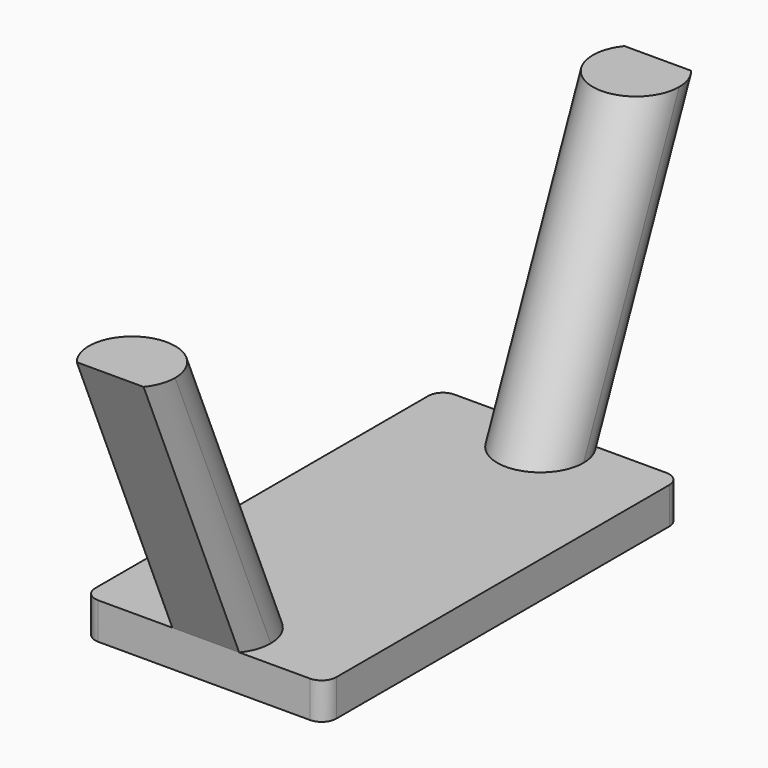
from build123d import *

# Parameters (mm, degrees)
F0_W     = 83.82
F0_H     = 154.94
F1_DEPTH = 12.7
F2_W     = 71.12
F2_H     = 142.24
F3_DEPTH = 7.62
F4_R     = 5.08
F5_R     = 5.08
F6_R     = 5.08
F7_R     = 5.08


with BuildPart() as f1:
    # F0 (on Top) → F1 (new body)
    with BuildSketch(Plane.XY):
        Rectangle(F0_W, F0_H)
    extrude(amount=F1_DEPTH)

    # F2 (on Top) → F3 (cut)
    with BuildSketch(Plane.XY):
        Rectangle(F2_W, F2_H)
    extrude(amount=F3_DEPTH, mode=Mode.SUBTRACT)

    # F4
    f4_edges = [f1.edges().sort_by_distance(p)[0] for p in [
        (41.91, -77.47, 6.35),
    ]]
    fillet(f4_edges, radius=F4_R)

    # F5
    f5_edges = [f1.edges().sort_by_distance(p)[0] for p in [
        (41.91, 77.47, 6.35),
    ]]
    fillet(f5_edges, radius=F5_R)

    # F6
    f6_edges = [f1.edges().sort_by_distance(p)[0] for p in [
        (-41.91, -77.47, 6.35),
    ]]
    fillet(f6_edges, radius=F6_R)

    # F7
    f7_edges = [f1.edges().sort_by_distance(p)[0] for p in [
        (-41.91, 77.47, 6.35),
    ]]
    fillet(f7_edges, radius=F7_R)

    # F10: sweep along a path in F9
    with BuildLine(Plane.YZ) as f10_path:
        Line((-68.238609, 13.756951), (-109.795533, 111.935183))
    # F8 (on face) → F10 (sweep)
    with BuildSketch(Plane.XY.offset(12.7)):
        with BuildLine():
            ThreePointArc((12.210004, -77.47), (14.725381, -73.015905), (15.59766, -67.975546))
            ThreePointArc((15.59766, -67.975546), (-4.441399, -53.849124), (-11.012084, -77.47))
            Line((-11.012084, -77.47), (12.210004, -77.47))
        make_face()
    sweep(path=f10_path.line)

    # F11: F1 across plane


with BuildPart() as f1_1:
    add(f1.part)
    add(f1.part.mirror(Plane.XZ))


solid = f1_1.part
